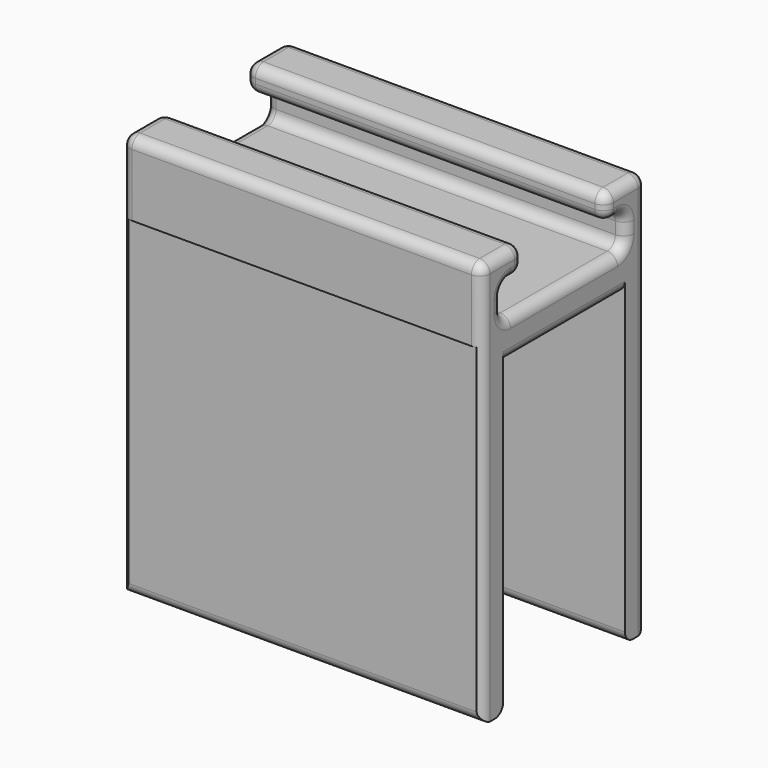
from build123d import *

# Parameters (mm, degrees)
F1_DEPTH = 44.45
F2_R     = 1.27


with BuildPart() as f1:
    # F0 (on Right) → F1 (new body)
    with BuildSketch(Plane.YZ):
        with BuildLine():
            Line((10.668, -24.967044556), (11.303, -24.967044556))
            ThreePointArc((11.303, -24.967044556), (12.2010256121, -24.5950701681), (12.573, -23.697044556))
            Line((12.573, -23.697044556), (12.573, 15.9512687449))
            Line((12.573, 15.9512687449), (12.7, 15.9512687449))
            Line((12.7, 15.9512687449), (12.7, 23.697044556))
            ThreePointArc((12.7, 23.697044556), (12.3280256121, 24.5950701681), (11.43, 24.967044556))
            Line((11.43, 24.967044556), (7.62, 24.967044556))
            ThreePointArc((7.62, 24.967044556), (6.7219743879, 24.5950701681), (6.35, 23.697044556))
            Line((6.35, 23.697044556), (6.35, 23.062044556))
            ThreePointArc((6.35, 23.062044556), (6.7219743879, 22.1640189439), (7.62, 21.792044556))
            Line((7.62, 21.792044556), (8.255, 21.792044556))
            ThreePointArc((8.255, 21.792044556), (9.1530256121, 21.4200701681), (9.525, 20.522044556))
            Line((9.525, 20.522044556), (9.525, 19.023438717))
            ThreePointArc((9.525, 19.023438717), (9.1530256121, 18.1254131049), (8.255, 17.753438717))
            Line((8.255, 17.753438717), (-8.255, 17.753438717))
            ThreePointArc((-8.255, 17.753438717), (-9.1530256121, 18.1254131049), (-9.525, 19.023438717))
            Line((-9.525, 19.023438717), (-9.525, 20.522044556))
            ThreePointArc((-9.525, 20.522044556), (-9.1530256121, 21.4200701681), (-8.255, 21.792044556))
            Line((-8.255, 21.792044556), (-7.62, 21.792044556))
            ThreePointArc((-7.62, 21.792044556), (-6.7219743879, 22.1640189439), (-6.35, 23.062044556))
            Line((-6.35, 23.062044556), (-6.35, 23.697044556))
            ThreePointArc((-6.35, 23.697044556), (-6.7219743879, 24.5950701681), (-7.62, 24.967044556))
            Line((-7.62, 24.967044556), (-11.43, 24.967044556))
            ThreePointArc((-11.43, 24.967044556), (-12.3280256121, 24.5950701681), (-12.7, 23.697044556))
            Line((-12.7, 23.697044556), (-12.7, 15.9512687449))
            Line((-12.7, 15.9512687449), (-12.573, 15.9512687449))
            Line((-12.573, 15.9512687449), (-12.573, -23.697044556))
            ThreePointArc((-12.573, -23.697044556), (-12.2010256121, -24.5950701681), (-11.303, -24.967044556))
            Line((-11.303, -24.967044556), (-10.668, -24.967044556))
            ThreePointArc((-10.668, -24.967044556), (-9.7699743879, -24.5950701681), (-9.398, -23.697044556))
            Line((-9.398, -23.697044556), (-9.398, 13.132955444))
            Line((-9.398, 13.132955444), (9.398, 13.132955444))
            Line((9.398, 13.132955444), (9.398, -23.697044556))
            ThreePointArc((9.398, -23.697044556), (9.7699743879, -24.5950701681), (10.668, -24.967044556))
        make_face()
    extrude(amount=F1_DEPTH)

    # F2
    f2_edges = [f1.edges().sort_by_distance(p)[0] for p in [
        (44.45, -12.7, 19.824157),
        (44.45, -9.525, 24.967045),
        (0, 0, 17.753439),
        (0, 0, 13.132955),
        (44.45, 0, 13.132955),
    ]]
    fillet(f2_edges, radius=F2_R)


solid = f1.part
